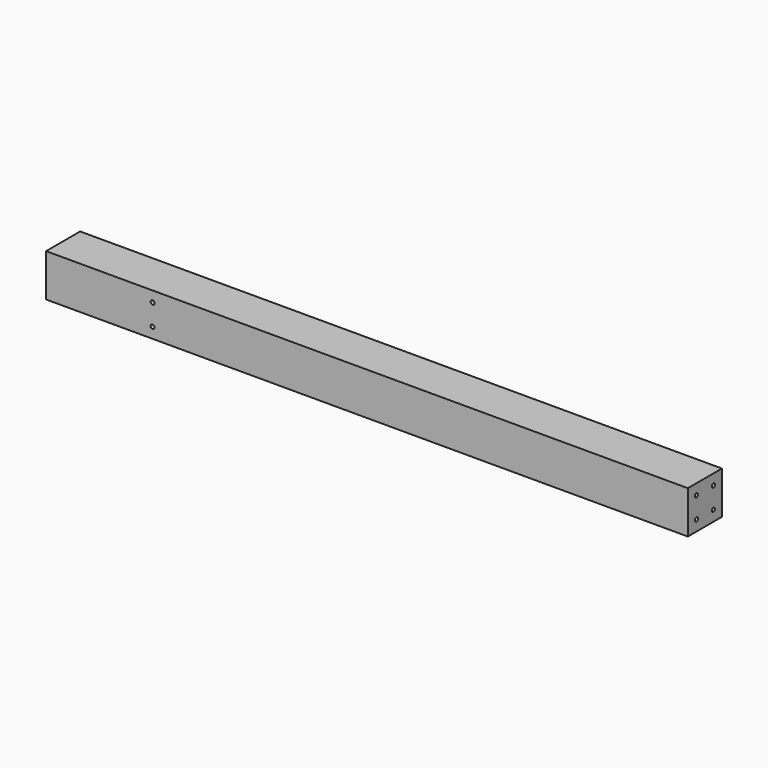
from build123d import *

# Parameters (mm, degrees)
F0_W     = 60
F0_H     = 60
F1_DEPTH = 904
F2_D     = 5.5
F4_D     = 5.5


with BuildPart() as f1:
    # F0 (on Right) → F1 (new body)
    with BuildSketch(Plane.YZ):
        with Locations((-30, 30)):
            Rectangle(F0_W, F0_H)
    extrude(amount=F1_DEPTH)

    # F2 (through all)
    with Locations(Plane(origin=(0, 0, 0), x_dir=(0, 1, 0), z_dir=(-1, 0, 0))):
        with Locations((-45, -45), (-45, -15), (-15, -15), (-15, -45)):
            Hole(F2_D / 2)

    # F4 (through all)
    with Locations(Plane.XZ.offset(60)):
        with Locations((150, 45), (150, 15)):
            Hole(F4_D / 2)


solid = f1.part
